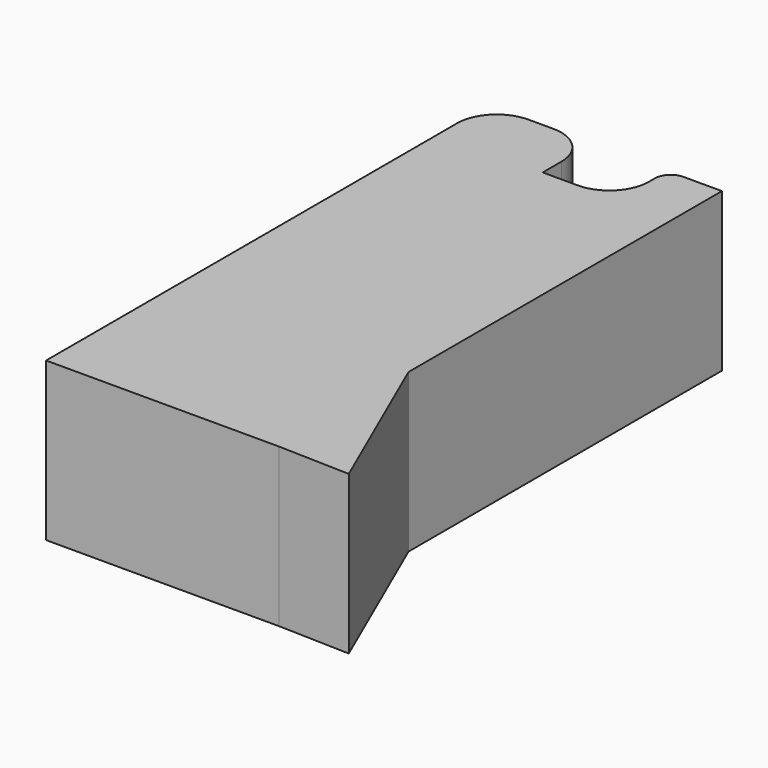
from build123d import *

# Parameters (mm, degrees)
F1_DEPTH = 25.4


with BuildPart() as f1:
    # F0 (on Top) → F1 (new body)
    with BuildSketch(Plane.XY):
        with BuildLine():
            Line((-38.512521, 32.880403), (-42.541664, 32.880403))
            ThreePointArc((-42.541664, 32.880403), (-47.031792, 31.020531), (-48.891664, 26.530403))
            Line((-48.891664, 26.530403), (-48.891664, -56.011409))
            Line((-48.891664, -56.011409), (-11.445787, -56.011409))
            Line((-11.445787, -56.011409), (0, -56.350652))
            Line((0, -56.350652), (-11.445787, -30.049009))
            Line((-11.445787, -30.049009), (-11.445787, 32.880403))
            Line((-11.445787, 32.880403), (-17.630178, 32.880403))
            ThreePointArc((-17.630178, 32.880403), (-19.426229, 32.136454), (-20.170178, 30.340403))
            Line((-20.170178, 30.340403), (-20.170178, 29.141145))
            ThreePointArc((-20.170178, 29.141145), (-22.03005, 24.651017), (-26.520178, 22.791145))
            Line((-26.520178, 22.791145), (-32.162521, 22.791145))
            Line((-32.162521, 22.791145), (-32.162521, 26.530403))
            ThreePointArc((-32.162521, 26.530403), (-34.022393, 31.020531), (-38.512521, 32.880403))
        make_face()
    extrude(amount=F1_DEPTH)


solid = f1.part
